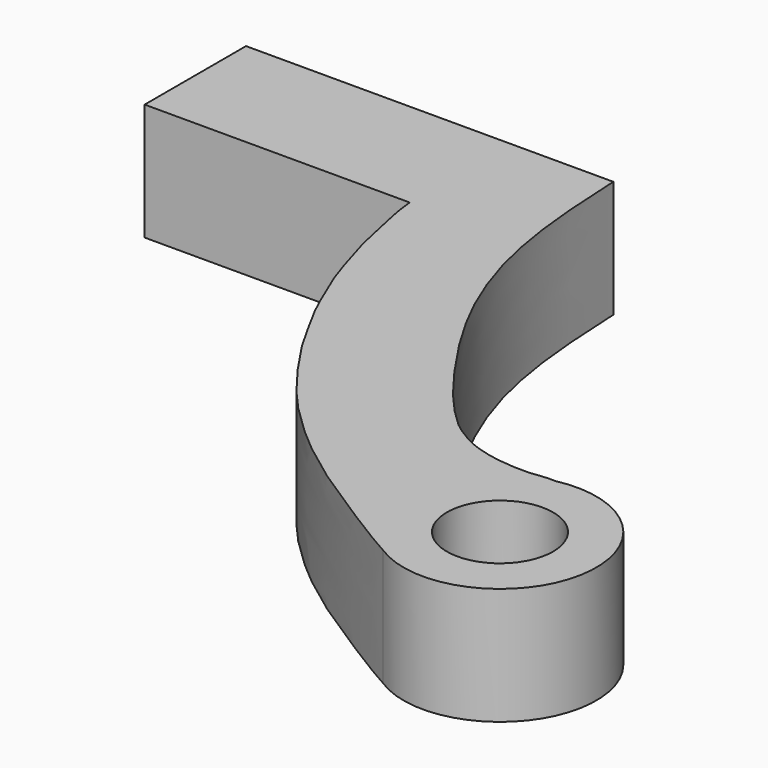
from build123d import *

# Parameters (mm, degrees)
F0_R     = 2.1904615563
F1_DEPTH = 4.826


with BuildPart() as f1:
    # F0 (on Top) → F1 (new body)
    with BuildSketch(Plane.XY):
        with BuildLine():
            add(Edge.make_bspline(
                [(9.5921617017, 4.1277068667), (9.6290738087, 3.8123354787), (9.7046535752, 3.1665935302), (9.9919115237, 2.1141841261), (10.1255965522, 1.1583497674), (10.5772896548, -0.2396085437), (10.8605576434, -1.2591924489), (11.3169459972, -2.2718629061), (11.8190695361, -3.5269722442), (12.3253560524, -4.3746855198), (12.7184627724, -5.1635480378), (13.253046465, -6.0579849845), (13.7451127956, -6.773563025), (14.2348398877, -7.4881650902), (15.0847279026, -8.5938502306), (15.7025184771, -9.2687508494), (16.1564875668, -9.716326265), (17.2779044467, -10.8028813369), (18.2911948611, -11.5812777306), (19.3081963371, -12.3531891329), (20.443586256, -13.0951229877), (21.438018337, -13.746971804), (22.4886005557, -14.3880439654), (23.29209997, -14.8961749327), (23.8080395291, -15.1894881372), (24.0616571517, -15.3305400449)],
                knots=[0, 0, 0, 0, 0.0410461242, 0.0840450388, 0.125504787, 0.1756906767, 0.2188053115, 0.2626107966, 0.3111664996, 0.3525133076, 0.3915229905, 0.4340343971, 0.4725512038, 0.5115589848, 0.5610618782, 0.6004790377, 0.6336164549, 0.6851246102, 0.7332345504, 0.7800644499, 0.8284952792, 0.8743050169, 0.9203751016, 0.961077333, 1, 1, 1, 1], degree=3))
            ThreePointArc((24.0616571517, -15.3305400449), (30.1132946426, -12.7031059857), (25.3838509527, -8.1033137687))
            add(Edge.make_bspline(
                [(13.8085617017, 9.3492036685), (13.8460020724, 8.5645227918), (13.923755849, 6.95247455), (14.1946207522, 4.4267992849), (14.7588196094, 2.053518814), (15.634502973, -0.1858144788), (16.6022063688, -1.9431726172), (17.5176156494, -3.4042709958), (18.9427393812, -5.3957762283), (19.9120300838, -6.4444376272), (20.7337400063, -7.2481274034), (21.7943575993, -7.8020737742), (22.3016493362, -7.9500631114), (22.9008003601, -8.0980120665), (23.5861791058, -8.1742956281), (24.3499687137, -8.1945121475), (24.7321993496, -8.1217275421), (25.190080126, -8.0865861457), (25.3838509527, -8.1033137687)],
                knots=[0, 0, 0, 0, 0.0835072584, 0.1694284467, 0.2539642649, 0.3376732325, 0.4132000705, 0.484866119, 0.5690728489, 0.633755444, 0.6916093338, 0.7497017369, 0.788921892, 0.8302859537, 0.8760990138, 0.922515209, 0.957003912, 1, 1, 1, 1], degree=3))
            Line((13.8085617017, 9.3492036685), (-1.3298382983, 9.3492036685))
            Line((-1.3298382983, 9.3492036685), (-1.3298382983, 4.1277068667))
            Line((-1.3298382983, 4.1277068667), (9.5921617017, 4.1277068667))
        make_face()
        with Locations((26.2068100274, -11.9884293526)):
            Circle(F0_R, mode=Mode.SUBTRACT)
    extrude(amount=F1_DEPTH)


solid = f1.part
